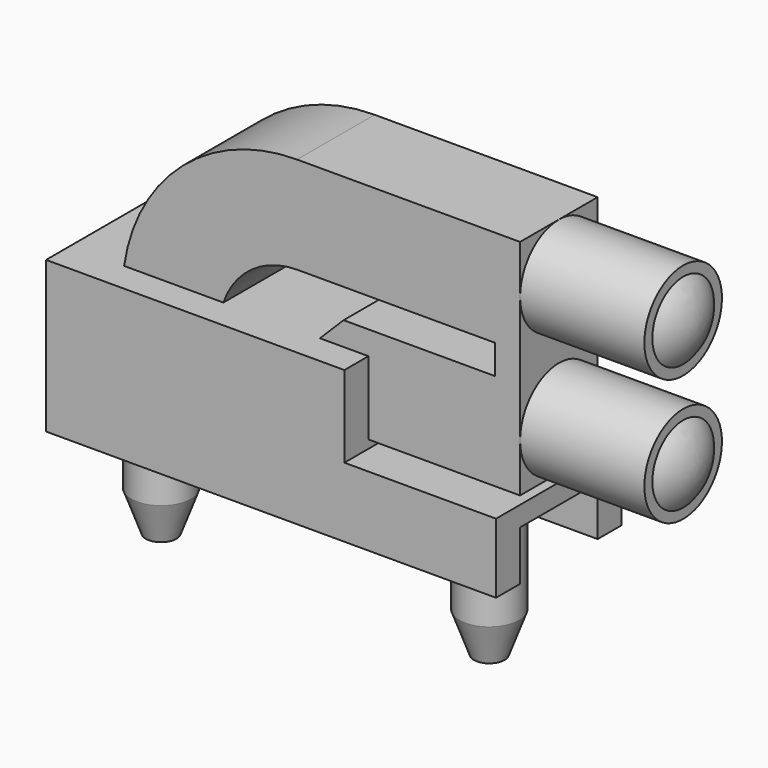
from build123d import *

# Parameters (mm, degrees)
SKETCH001_W            = 1.95
SKETCH001_H            = 4.49
PAD_DEPTH              = 0.5
LINEARPATTERN_COUNT    = 2
LINEARPATTERN_PITCH    = 2.54
PAD001_DEPTH           = 0.975
PAD002_DEPTH           = 0.975
PAD003_DEPTH           = 1.58
SKETCH005_W            = 1.95
SKETCH005_H            = 4.5
SKETCH005_H_2          = 4.05
POCKET_DEPTH           = 1
SKETCH006_R            = 0.6
PAD004_DEPTH           = 4.64
LINEARPATTERN001_COUNT = 2
LINEARPATTERN001_PITCH = 6.6
CHAMFER_1_ANGLE        = 20
CHAMFER_1_SIZE         = 0.8
CHAMFER_2_ANGLE        = 20
CHAMFER_2_SIZE         = 0.8


with BuildPart() as part:
    # Sketch001 → Pad (new body)
    with BuildSketch(Plane.YZ):
        with Locations((0, 1.27)):
            Rectangle(SKETCH001_W, SKETCH001_H)
    extrude(amount=-PAD_DEPTH)

    # Sketch → Revolution (revolve)
    with BuildSketch(Plane.XZ):
        with BuildLine():
            Line((0, 0), (0, 0.975))
            Line((0, 0.975), (2.5, 0.975))
            Line((2.5, 0.975), (2.5, 0.775))
            ThreePointArc((2.8, 0), (2.722383, 0.415519), (2.5, 0.775))
            Line((2.8, 0), (0, 0))
        make_face()
    revolution = revolve(axis=Axis((0, 0, 0), (1, 0, 0)))

    # LinearPattern: Revolution ×2
    with Locations(*[(0, 0, i * LINEARPATTERN_PITCH) for i in range(1, LINEARPATTERN_COUNT)]):
        add(revolution)

    # Sketch002 → Pad001 (join, symmetric)
    with BuildSketch(Plane.XZ):
        with BuildLine():
            Line((-0.5, 3.515), (-4.485, 3.515))
            ThreePointArc((-4.485, 3.515), (-6.97048, 2.48548), (-8, 0))
            Line((-8, 0), (-6.05, 0))
            ThreePointArc((-4.485, 1.565), (-5.591622, 1.106622), (-6.05, 0))
            Line((-4.485, 1.565), (-0.5, 1.565))
            Line((-0.5, 1.565), (-0.5, 3.515))
        make_face()
    extrude(amount=PAD001_DEPTH, both=True)

    # Sketch003 → Pad002 (join, symmetric)
    with BuildSketch(Plane.XZ):
        Polygon((-0.5, 0.975), (-3.55, 0.975), (-5.5, -0.975), (-0.5, -0.975), align=None)
    extrude(amount=PAD002_DEPTH, both=True)

    # Sketch004 → Pad003 (join, symmetric)
    with BuildSketch(Plane.XZ):
        Polygon((0, -2.54), (-9.05, -2.54), (-9.05, 0.5), (-3.05, 0.5), (-3.05, -1.14), (0, -1.14), align=None)
    extrude(amount=PAD003_DEPTH, both=True)

    # Sketch005 (on Face27 of Pad003) → Pocket (cut)
    with BuildSketch(Plane.YX.offset(2.54)):
        with Locations((0, -2.25)):
            Rectangle(SKETCH005_W, SKETCH005_H)
        with Locations((0, -7.025)):
            Rectangle(SKETCH005_W, SKETCH005_H_2)
    extrude(amount=-POCKET_DEPTH, mode=Mode.SUBTRACT)

    # Sketch006 → Pad004 (join)
    with BuildSketch(Plane.XY):
        with Locations((-1.4, 0)):
            Circle(SKETCH006_R)
    pad004 = extrude(amount=-PAD004_DEPTH)

    # LinearPattern001: Pad004 ×2
    with Locations(*[(-i * LINEARPATTERN001_PITCH, 0, 0) for i in range(1, LINEARPATTERN001_COUNT)]):
        add(pad004)

    # Chamfer 1
    chamfer_1_edges = [part.edges().sort_by_distance(p)[0] for p in [
        (-2, 0, -4.64),
    ]]
    chamfer_1_side = part.faces().sort_by_distance((-2, 0, -3.09))[0]
    chamfer(chamfer_1_edges, length=CHAMFER_1_SIZE, angle=CHAMFER_1_ANGLE, reference=chamfer_1_side)

    # Chamfer 2
    chamfer_2_edges = [part.edges().sort_by_distance(p)[0] for p in [
        (-8.6, 0, -4.64),
    ]]
    chamfer_2_side = part.faces().sort_by_distance((-8.6, 0, -3.09))[0]
    chamfer(chamfer_2_edges, length=CHAMFER_2_SIZE, angle=CHAMFER_2_ANGLE, reference=chamfer_2_side)


solid = part.part
